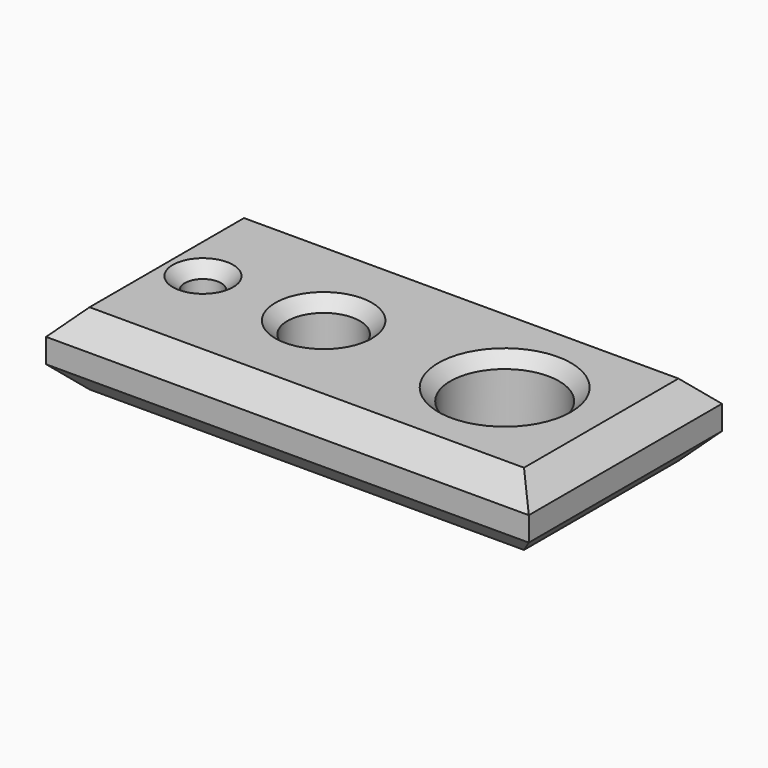
from build123d import *

# Parameters (mm, degrees)
F0_W     = 200
F0_H     = 100
F0_R     = 7.5
F0_R_2   = 15
F0_R_3   = 22.5
F1_DEPTH = 30
F2_SIZE2 = 5
F2_SIZE  = 5
F3_SIZE2 = 10
F3_SIZE  = 10


with BuildPart() as f1:
    # F0 (on Top) → F1 (new body)
    with BuildSketch(Plane.XY):
        Rectangle(F0_W, F0_H)
        with Locations((-75, 0)):
            Circle(F0_R, mode=Mode.SUBTRACT)
        with Locations((-25, 0)):
            Circle(F0_R_2, mode=Mode.SUBTRACT)
        with Locations((50, 0)):
            Circle(F0_R_3, mode=Mode.SUBTRACT)
    extrude(amount=F1_DEPTH)

    # F2
    f2_edges = [f1.edges().sort_by_distance(p)[0] for p in [
        (-82.5, 0, 30),
        (-40, 0, 30),
        (27.5, 0, 30),
    ]]
    chamfer(f2_edges, length=F2_SIZE, length2=F2_SIZE2)

    # F3
    f3_edges = [f1.edges().sort_by_distance(p)[0] for p in [
        (-100, 0, 30),
        (-100, 0, 0),
        (0, -50, 0),
        (0, -50, 30),
        (100, 0, 0),
        (100, 0, 30),
        (0, 50, 0),
        (0, 50, 30),
    ]]
    chamfer(f3_edges, length=F3_SIZE, length2=F3_SIZE2)


solid = f1.part
